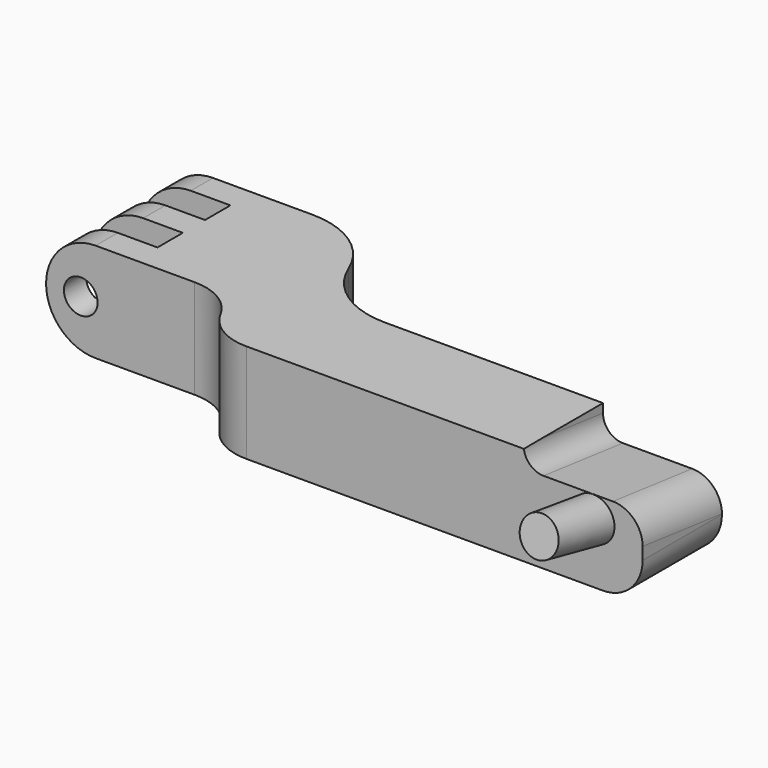
from build123d import *

# Parameters (mm, degrees)
PAD008_DEPTH    = 5
POCKET013_DEPTH = 20.801
SKETCH027_R     = 1.7
POCKET014_DEPTH = 14.801
POCKET015_DEPTH = 12
FILLET007_R     = 3
FILLET008_R     = 2
FILLET009_R     = 4


with BuildPart() as part:
    # Sketch025 → Pad008 (new body, symmetric)
    with BuildSketch(Plane.XY):
        with BuildLine():
            Line((0, 0), (0, 2.8))
            Line((0, 2.8), (9, 2.8))
            Line((9, 2.8), (9, 6))
            Line((9, 6), (0, 6))
            Line((0, 6), (0, 8.8))
            Line((0, 8.8), (9, 8.8))
            Line((9, 8.8), (9, 12))
            Line((9, 12), (0, 12))
            Line((0, 12), (0, 14.8))
            Line((0, 14.8), (9, 14.8))
            Line((9, 14.8), (15, 14.8))
            ThreePointArc((23, 9.4), (19.8259714048, 13.3236613405), (15, 14.8))
            ThreePointArc((23, 9.4), (26.1740285952, 5.4763386595), (31, 4))
            Line((31, 4), (65, 4))
            Line((65, 4), (65, -6))
            Line((25, -6), (65, -6))
            ThreePointArc((20, -3), (22.0845240526, -5.1924599124), (25, -6))
            ThreePointArc((20, -3), (17.9154759474, -0.8075400876), (15, 0))
            Line((15, 0), (0, 0))
        make_face()
    extrude(amount=PAD008_DEPTH, both=True)

    # Sketch026 (on Face18 of Pad008) → Pocket013 (cut, through all)
    with BuildSketch(Plane.XZ.offset(6)):
        with BuildLine():
            ThreePointArc((5, 5), (0, 0), (5, -5))
            Line((5, -6), (5, -5))
            Line((-1, -6), (5, -6))
            Line((-1, 6), (-1, -6))
            Line((5, 6), (-1, 6))
            Line((5, 6), (5, 5))
        make_face()
    extrude(amount=-POCKET013_DEPTH, mode=Mode.SUBTRACT)

    # Sketch027 (on Face3 of Pocket013) → Pocket014 (cut, through all)
    with BuildSketch(Plane.XZ):
        with Locations((3.5, 0)):
            Circle(SKETCH027_R)
    extrude(amount=-POCKET014_DEPTH, mode=Mode.SUBTRACT)

    # Sketch028 (on DatumLine) → Revolution001 (revolve)
    with BuildSketch(Plane(origin=(60, 0, 0), x_dir=(0, -0.1736481777, -0.984807753), z_dir=(1, 0, 0))):
        Polygon((0, -5), (2.1902294727, -5), (1.95, -13), (0, -13), align=None)
    revolve(axis=Axis((60, 0, 0), (0, 0.984807753, -0.1736481777)))

    # Sketch029 (on Face23 of Revolution001) → Pocket015 (cut)
    with BuildSketch(Plane.YZ.offset(65)):
        Polygon((-6, 3.25), (6, 1.8615526279), (6, 6.8615526279), (-6, 6.8615526279), align=None)
    extrude(amount=-POCKET015_DEPTH, mode=Mode.SUBTRACT)

    # Fillet007
    fillet007_edges = [part.edges().sort_by_distance(p)[0] for p in [
        (65, -1, 2.67148),
    ]]
    fillet(fillet007_edges, radius=FILLET007_R)

    # Fillet008
    fillet008_edges = [part.edges().sort_by_distance(p)[0] for p in [
        (53, -1, 2.67148),
    ]]
    fillet(fillet008_edges, radius=FILLET008_R)

    # Fillet009
    fillet009_edges = [part.edges().sort_by_distance(p)[0] for p in [
        (65, -1, -5),
    ]]
    fillet(fillet009_edges, radius=FILLET009_R)


solid = part.part
